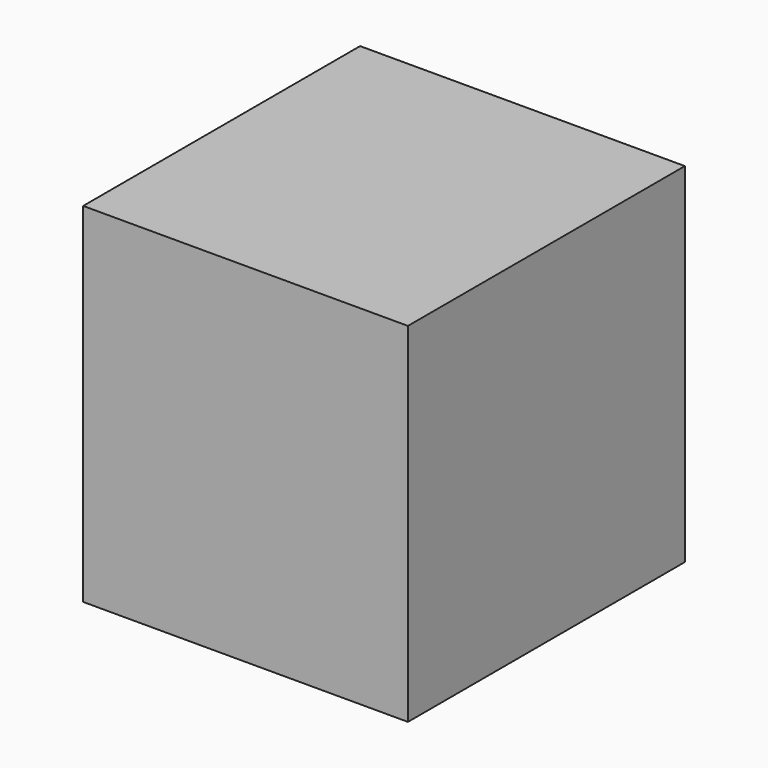
from build123d import *

# Parameters (mm, degrees)
F1_W     = 130.82081
F1_H     = 140.42908
F2_DEPTH = 139.417768


with BuildPart() as f2:
    # F1 (on face) → F2 (new body)
    with BuildSketch(Plane.XZ):
        Rectangle(F1_W, F1_H)
    extrude(amount=F2_DEPTH)


solid = f2.part
